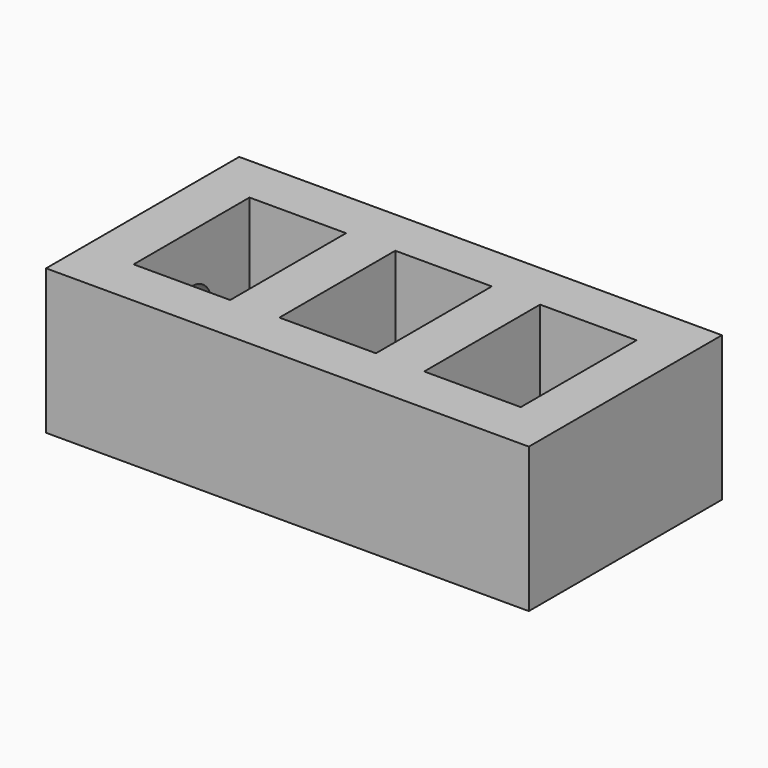
from build123d import *

# Parameters (mm, degrees)
SKETCH_W        = 100
SKETCH_H        = 50
PAD_DEPTH       = 30
SKETCH002_W     = 20
SKETCH002_H     = 30
POCKET_DEPTH    = 30
SKETCH003_W     = 20
SKETCH003_H     = 30
POCKET001_DEPTH = 30
SKETCH004_W     = 20
SKETCH004_H     = 30
POCKET002_DEPTH = 30
SKETCH005_R     = 5
POCKET003_DEPTH = 18


with BuildPart() as part:
    # Sketch → Pad (new body)
    with BuildSketch(Plane.XY):
        with Locations((-20.333326, 4.957771)):
            Rectangle(SKETCH_W, SKETCH_H)
    extrude(amount=PAD_DEPTH)

    # Sketch002 (on Face6 of Pad) → Pocket (cut)
    with BuildSketch(Plane.XY.offset(30)):
        with Locations((-50.136953, 4.881032)):
            Rectangle(SKETCH002_W, SKETCH002_H)
    extrude(amount=-POCKET_DEPTH, mode=Mode.SUBTRACT)

    # Sketch003 (on Face5 of Pocket) → Pocket001 (cut)
    with BuildSketch(Plane.XY.offset(30)):
        with Locations((-20.07695, 5.053894)):
            Rectangle(SKETCH003_W, SKETCH003_H)
    extrude(amount=-POCKET001_DEPTH, mode=Mode.SUBTRACT)

    # Sketch004 (on Face5 of Pocket001) → Pocket002 (cut)
    with BuildSketch(Plane.XY.offset(30)):
        with Locations((10, 4.949642)):
            Rectangle(SKETCH004_W, SKETCH004_H)
    extrude(amount=-POCKET002_DEPTH, mode=Mode.SUBTRACT)

    # Sketch005 (on Face1 of Pocket002) → Pocket003 (cut)
    with BuildSketch(Plane(origin=(-70.333326, 0, 0), x_dir=(0, -1, 0), z_dir=(-1, 0, 0))):
        with Locations((-5.017015, 14.892237)):
            Circle(SKETCH005_R)
    extrude(amount=-POCKET003_DEPTH, mode=Mode.SUBTRACT)


solid = part.part
